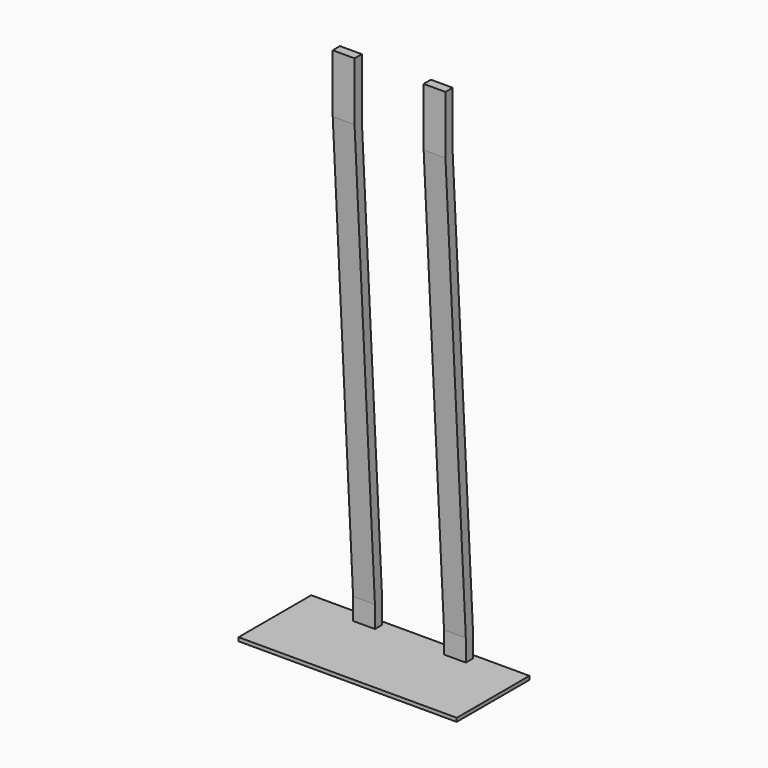
from build123d import *

# Parameters (mm, degrees)
F0_W     = 600
F0_H     = 250
F3_DEPTH = 10


with BuildPart() as f3:
    # F0 (on Top) → F3 (new body)
    with BuildSketch(Plane.XY):
        Rectangle(F0_W, F0_H)
    extrude(amount=-F3_DEPTH)


with BuildPart() as f4:
    # F4: sweep along a path in F2
    with BuildLine(Plane.YZ) as f4_path:
        Line((100, 0), (100, 60))
        Line((100, 60), (30, 1250))
        Line((30, 1250), (30, 1410))
    # F1 (on face) → F4 (sweep)
    with BuildSketch(Plane.XY):
        Polygon((155, 87.5), (155, 100), (155, 112.5), (95, 112.5), (95, 87.5), align=None)
        Polygon((-155, 87.5), (-95, 87.5), (-95, 112.5), (-155, 112.5), (-155, 100), align=None)
    sweep(path=f4_path.line, transition=Transition.RIGHT)


solid = Compound([f3.part, f4.part])
